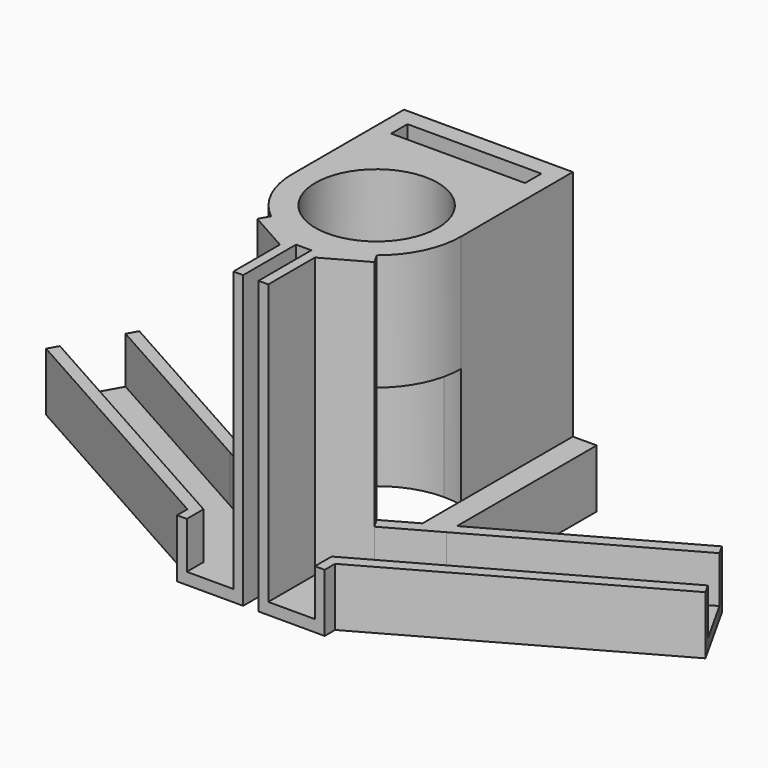
from build123d import *

# Parameters (mm, degrees)
F1_DEPTH = 10
F2_DEPTH = 2
F0_R     = 10.5
F3_DEPTH = 50
F4_DEPTH = 30
F0_W     = 23
F0_H     = 3.5
F5_DEPTH = 50


with BuildPart() as f1:
    # F0 (on Top) → F1 (new body)
    with BuildSketch(Plane.XY):
        Polygon((-12.6842105263, 0), (-11, 0), (-11, 3.5898238607), (-55.6379765465, 28.5605340733), (-56.6143926616, 26.8150795278), (-12.6842105263, 2.2403130945), align=None)
    extrude(amount=F1_DEPTH)



with BuildPart() as f1b:
    # F0 (on Top) → F1, piece 2 (new body)
    with BuildSketch(Plane.XY):
        Polygon((-51, 36.8514431642), (-18.596614075, 18.7248249248), (-18.596614075, 21.0164915914), (-50.0235838849, 38.5968977096), align=None)
        Polygon((-18.596614075, 21.0164915914), (-18.596614075, 18.7248249248), (-14.5, 18.7248249248), align=None)
        Polygon((-18.596614075, 21.0164915914), (-14.5, 18.7248249248), (-14.5, 27), (-14.5, 41.5), (-14.5, 51), (-18.596614075, 51), align=None)
        Polygon((-18.596614075, 18.7248249248), (-10.0476759502, 13.9425056295), (-9.0712598352, 15.687960175), (-14.5, 18.7248249248), align=None)
    extrude(amount=F1_DEPTH)


with BuildPart() as f1c:
    # F0 (on Top) → F1, piece 3 (new body)
    with BuildSketch(Plane.XY):
        Polygon((18.596614075, 21.0164915914), (14.5, 18.7248249248), (18.596614075, 18.7248249248), align=None)
        Polygon((18.596614075, 21.0164915914), (18.596614075, 18.7248249248), (51, 36.8514431642), (50.0235838849, 38.5968977096), align=None)
        Polygon((14.5, 51), (14.5, 41.5), (14.5, 27), (14.5, 18.7248249248), (18.596614075, 21.0164915914), (18.596614075, 51), align=None)
        Polygon((14.5, 18.7248249248), (9.0712598352, 15.687960175), (10.0476759502, 13.9425056295), (18.596614075, 18.7248249248), align=None)
    extrude(amount=F1_DEPTH)



with BuildPart() as f1d:
    # F0 (on Top) → F1, piece 4 (new body)
    with BuildSketch(Plane.XY):
        Polygon((55.6379765465, 28.5605340733), (11, 3.5898238607), (12.6842105263, 2.2403130945), (56.6143926616, 26.8150795278), align=None)
        Polygon((11, 3.5898238607), (11, 0), (12.6842105263, 0), (12.6842105263, 2.2403130945), align=None)
    extrude(amount=F1_DEPTH)


with BuildPart() as f1_1:
    add(f1.part)

    add(f1b.part)  # F2 merges F1b
    # F0 (on Top) → F2 (join)
    with BuildSketch(Plane.XY):
        Polygon((-11, 0), (-3, 0), (-3, 10), (-10.0476759502, 13.9425056295), (-18.596614075, 18.7248249248), (-51, 36.8514431642), (-55.6379765465, 28.5605340733), (-11, 3.5898238607), align=None)
    extrude(amount=F2_DEPTH)



with BuildPart() as f1c_1:
    add(f1c.part)

    add(f1d.part)  # F2#2 merges F1d
    # F0 (on Top) → F2, piece 2 (join)
    with BuildSketch(Plane.XY):
        Polygon((10.0476759502, 13.9425056295), (3, 10), (11, 3.5898238607), (55.6379765465, 28.5605340733), (51, 36.8514431642), (18.596614075, 18.7248249248), align=None)
        Polygon((3, 10), (3, 0), (11, 0), (11, 3.5898238607), align=None)
    extrude(amount=F2_DEPTH)


with BuildPart() as f1_2:
    add(f1_1.part)

    add(f1c_1.part)  # F3 merges F1c
    # F0 (on Top) → F3 (join)
    with BuildSketch(Plane.XY):
        with BuildLine():
            ThreePointArc((-14.5, 27), (-13.0725526889, 20.7263753543), (-9.0712598352, 15.687960175))
            Line((-9.0712598352, 15.687960175), (-4.8924551228, 13.3503156494))
            ThreePointArc((-4.8924551228, 13.3503156494), (0, 12.5), (4.8924551228, 13.3503156494))
            Line((4.8924551228, 13.3503156494), (9.0712598352, 15.687960175))
            ThreePointArc((9.0712598352, 15.687960175), (13.0725526889, 20.7263753543), (14.5, 27))
            ThreePointArc((14.5, 27), (10.2530483272, 37.2530483272), (0, 41.5))
            ThreePointArc((0, 41.5), (-10.2530483272, 37.2530483272), (-14.5, 27))
        make_face()
        with Locations((0, 27)):
            Circle(F0_R, mode=Mode.SUBTRACT)
        with BuildLine():
            Line((-4.8924551228, 13.3503156494), (-9.0712598352, 15.687960175))
            ThreePointArc((-9.0712598352, 15.687960175), (-7.0790168342, 14.3454545455), (-4.8924551228, 13.3503156494))
        make_face()
        with BuildLine():
            Line((9.0712598352, 15.687960175), (4.8924551228, 13.3503156494))
            ThreePointArc((4.8924551228, 13.3503156494), (7.0790168342, 14.3454545455), (9.0712598352, 15.687960175))
        make_face()
    extrude(amount=F3_DEPTH)

    # F0 (on Top) → F4 (cut)
    with BuildSketch(Plane.XY):
        with BuildLine():
            ThreePointArc((-14.5, 27), (-13.0725526889, 20.7263753543), (-9.0712598352, 15.687960175))
            Line((-9.0712598352, 15.687960175), (-4.8924551228, 13.3503156494))
            ThreePointArc((-4.8924551228, 13.3503156494), (0, 12.5), (4.8924551228, 13.3503156494))
            Line((4.8924551228, 13.3503156494), (9.0712598352, 15.687960175))
            ThreePointArc((9.0712598352, 15.687960175), (13.0725526889, 20.7263753543), (14.5, 27))
            ThreePointArc((14.5, 27), (10.2530483272, 37.2530483272), (0, 41.5))
            ThreePointArc((0, 41.5), (-10.2530483272, 37.2530483272), (-14.5, 27))
        make_face()
        with Locations((0, 27)):
            Circle(F0_R, mode=Mode.SUBTRACT)
        with BuildLine():
            Line((-4.8924551228, 13.3503156494), (-9.0712598352, 15.687960175))
            ThreePointArc((-9.0712598352, 15.687960175), (-7.0790168342, 14.3454545455), (-4.8924551228, 13.3503156494))
        make_face()
        with BuildLine():
            Line((9.0712598352, 15.687960175), (4.8924551228, 13.3503156494))
            ThreePointArc((4.8924551228, 13.3503156494), (7.0790168342, 14.3454545455), (9.0712598352, 15.687960175))
        make_face()
    extrude(amount=F4_DEPTH, mode=Mode.SUBTRACT)

    # F0 (on Top) → F5 (join)
    with BuildSketch(Plane.XY):
        with BuildLine():
            Line((-14.5, 41.5), (-14.5, 27))
            ThreePointArc((-14.5, 27), (-10.2530483272, 37.2530483272), (0, 41.5))
            Line((0, 41.5), (-14.5, 41.5))
        make_face()
        with BuildLine():
            Line((14.5, 41.5), (0, 41.5))
            ThreePointArc((0, 41.5), (10.2530483272, 37.2530483272), (14.5, 27))
            Line((14.5, 27), (14.5, 41.5))
        make_face()
        with BuildLine():
            Line((-4.8924551228, 13.3503156494), (-1.3157894737, 11.3495107662))
            Line((-1.3157894737, 11.3495107662), (1.3157894737, 11.3495107662))
            Line((1.3157894737, 11.3495107662), (4.8924551228, 13.3503156494))
            ThreePointArc((4.8924551228, 13.3503156494), (0, 12.5), (-4.8924551228, 13.3503156494))
        make_face()
        Polygon((-14.5, 41.5), (0, 41.5), (14.5, 41.5), (14.5, 51), (-14.5, 51), align=None)
        with Locations((0, 46.25)):
            Rectangle(F0_W, F0_H, mode=Mode.SUBTRACT)
        with BuildLine():
            Line((1.3157894737, 11.3495107662), (1.3157894737, 0))
            Line((1.3157894737, 0), (3, 0))
            Line((3, 0), (3, 10))
            Line((3, 10), (10.0476759502, 13.9425056295))
            Line((10.0476759502, 13.9425056295), (9.0712598352, 15.687960175))
            ThreePointArc((9.0712598352, 15.687960175), (7.0790168342, 14.3454545455), (4.8924551228, 13.3503156494))
            Line((4.8924551228, 13.3503156494), (1.3157894737, 11.3495107662))
        make_face()
        with BuildLine():
            Line((-3, 10), (-3, 0))
            Line((-3, 0), (-1.3157894737, 0))
            Line((-1.3157894737, 0), (-1.3157894737, 11.3495107662))
            Line((-1.3157894737, 11.3495107662), (-4.8924551228, 13.3503156494))
            ThreePointArc((-4.8924551228, 13.3503156494), (-7.0790168342, 14.3454545455), (-9.0712598352, 15.687960175))
            Line((-9.0712598352, 15.687960175), (-10.0476759502, 13.9425056295))
            Line((-10.0476759502, 13.9425056295), (-3, 10))
        make_face()
    extrude(amount=F5_DEPTH)


solid = f1_2.part
